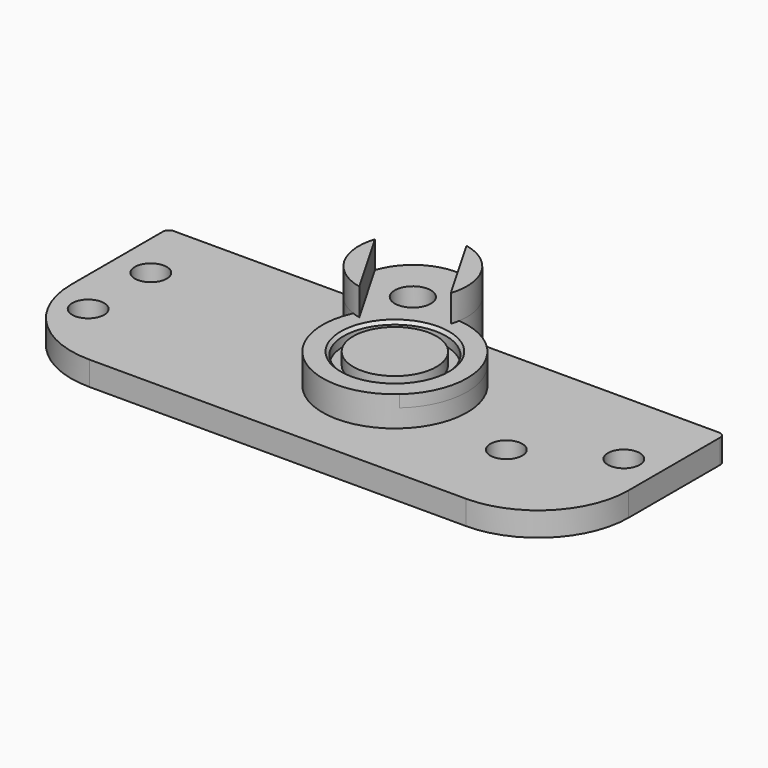
from build123d import *

# Parameters (mm, degrees)
SKETCH_R        = 12
SKETCH_R_2      = 8.5
PAD_DEPTH       = 2
SKETCH001_R     = 8.5
SKETCH001_R_2   = 3
PAD001_DEPTH    = 5
SKETCH002_R     = 8.5
PAD002_DEPTH    = 3
SKETCH003_R     = 6.9
PAD003_DEPTH    = 2
PAD004_DEPTH    = 4.5
SKETCH005_R     = 2.65
PAD005_DEPTH    = 4
SKETCH006_R     = 3
POCKET_DEPTH    = 5
CHAMFER_SIZE    = 0.5
CHAMFER001_SIZE = 0.5
FILLET_R        = 15
FILLET001_R     = 1


with BuildPart() as part:
    # Sketch → Pad (new body)
    with BuildSketch(Plane.XY):
        Circle(SKETCH_R)
        Circle(SKETCH_R_2, mode=Mode.SUBTRACT)
    extrude(amount=PAD_DEPTH)

    # Sketch001 (on Face4 of Pad) → Pad001 (join)
    with BuildSketch(Plane.XY.offset(2)):
        with BuildLine():
            ThreePointArc((1.128054, 11.946861), (-12.25, 21.217622), (-10.910313, 4.996507))
            ThreePointArc((-10.910313, 4.996507), (6, -10.392305), (1.128054, 11.946861))
        make_face()
        Circle(SKETCH001_R, mode=Mode.SUBTRACT)
        with Locations((-7.75, 13.423394)):
            Circle(SKETCH001_R_2, mode=Mode.SUBTRACT)
    extrude(amount=-PAD001_DEPTH)

    # Sketch002 (on Face6 of Pad001) → Pad002 (join)
    with BuildSketch(Plane(origin=(0, 0, -3), x_dir=(1, 0, 0), z_dir=(0, 0, -1))):
        Circle(SKETCH002_R)
    extrude(amount=-PAD002_DEPTH)

    # Sketch003 (on Face11 of Pad002) → Pad003 (join)
    with BuildSketch(Plane.XY):
        Circle(SKETCH003_R)
    extrude(amount=PAD003_DEPTH)

    # Sketch004 (on Face7 of Pad003) → Pad004 (join)
    with BuildSketch(Plane.XY.offset(2)):
        with BuildLine():
            Line((-16.300254, 16.232869), (-9.59205, 4.613919))
            ThreePointArc((-16.300254, 16.232869), (-15.544229, 8.923394), (-9.59205, 4.613919))
        make_face()
        with BuildLine():
            Line((0.800254, 10.613919), (-5.90795, 22.232869))
            ThreePointArc((0.800254, 10.613919), (0.044229, 17.923394), (-5.90795, 22.232869))
        make_face()
    extrude(amount=PAD004_DEPTH)

    # Sketch005 (on Face19 of Pad004) → Pad005 (join)
    with BuildSketch(Plane.XY.offset(-3)):
        with BuildLine():
            ThreePointArc((0.873288, 16), (-7.75, 22.423394), (-16.373288, 16))
            Line((-16.373288, 16), (-50.5, 16))
            Line((-50.5, 16), (-50.5, -19))
            Line((-50.5, -19), (42, -19))
            Line((42, -19), (42, 16))
            Line((42, 16), (0.873288, 16))
        make_face()
        with Locations((-44.5, -8)):
            Circle(SKETCH005_R, mode=Mode.SUBTRACT)
        with Locations((-44.5, 5)):
            Circle(SKETCH005_R, mode=Mode.SUBTRACT)
        with Locations((22.5, -5)):
            Circle(SKETCH005_R, mode=Mode.SUBTRACT)
        with Locations((36, 2.5)):
            Circle(SKETCH005_R, mode=Mode.SUBTRACT)
    extrude(amount=-PAD005_DEPTH)

    # Sketch006 → Pocket (cut)
    with BuildSketch(Plane.XY.offset(-3)):
        with Locations((-7.75, 13.423394)):
            Circle(SKETCH006_R)
    extrude(amount=-POCKET_DEPTH, mode=Mode.SUBTRACT)

    # Chamfer
    chamfer_edges = [part.edges().sort_by_distance(p)[0] for p in [
        (-8.5, 0, 2),
    ]]
    chamfer(chamfer_edges, length=CHAMFER_SIZE)

    # Chamfer001
    chamfer001_edges = [part.edges().sort_by_distance(p)[0] for p in [
        (-50.5, -1.5, -7),
    ]]
    chamfer(chamfer001_edges, length=CHAMFER001_SIZE)

    # Fillet
    fillet_edges = [part.edges().sort_by_distance(p)[0] for p in [
        (42, -19, -5),
        (-50.5, -19, -4.75),
    ]]
    fillet(fillet_edges, radius=FILLET_R)

    # Fillet001
    fillet001_edges = [part.edges().sort_by_distance(p)[0] for p in [
        (42, 16, -5),
        (-50.5, 16, -4.75),
    ]]
    fillet(fillet001_edges, radius=FILLET001_R)


solid = part.part
